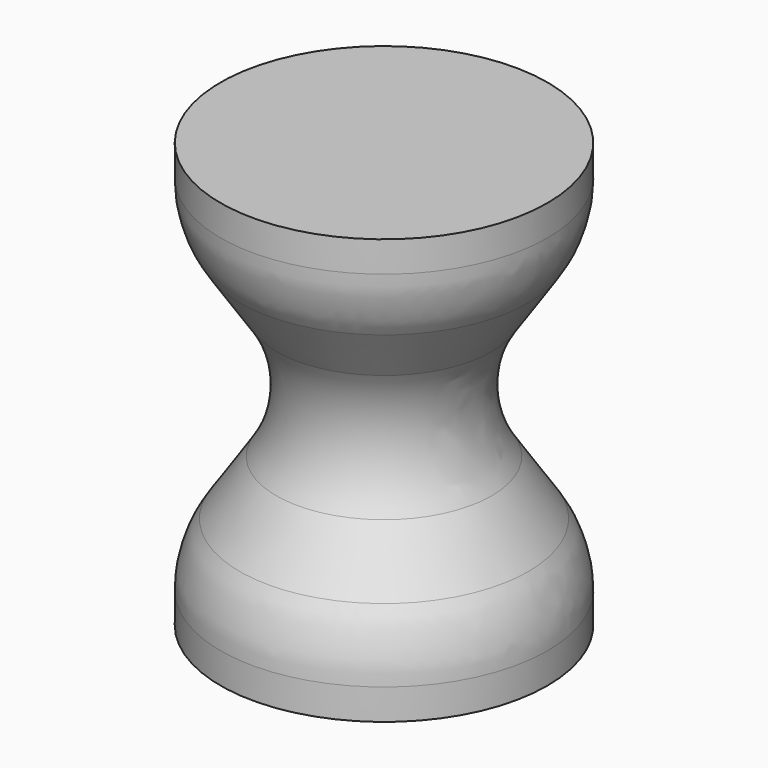
from build123d import *

# Parameters (mm, degrees)
F1_R     = 10
F2_R     = 4
F5_DEPTH = 4
F6_DEPTH = 4
F7_R     = 7


with BuildPart() as f3:
    # F1 (on offset) → F3 section 0
    with BuildSketch(Plane.XY.offset(9)):
        Circle(F1_R)
    # F2 (on Top) → F3 section 1
    with BuildSketch(Plane.XY):
        Circle(F2_R)
    loft()

    # F4: F3 across plane


with BuildPart() as f3_1:
    add(f3.part)
    add(f3.part.mirror(Plane.XY))

    # F5 (add): a face of the model
    f5_faces = [f3_1.faces().sort_by_distance(p)[0] for p in [
        (0, 0, -9),
    ]]
    extrude(f5_faces, amount=F5_DEPTH)

    # F6 (add): a face of the model
    f6_faces = [f3_1.faces().sort_by_distance(p)[0] for p in [
        (0, 0, 9),
    ]]
    extrude(f6_faces, amount=F6_DEPTH)

    # F7
    f7_edges = [f3_1.edges().sort_by_distance(p)[0] for p in [
        (-4, 0, 0),
        (-10, 0, -9),
        (-10, 0, 9),
    ]]
    fillet(f7_edges, radius=F7_R)


solid = f3_1.part
